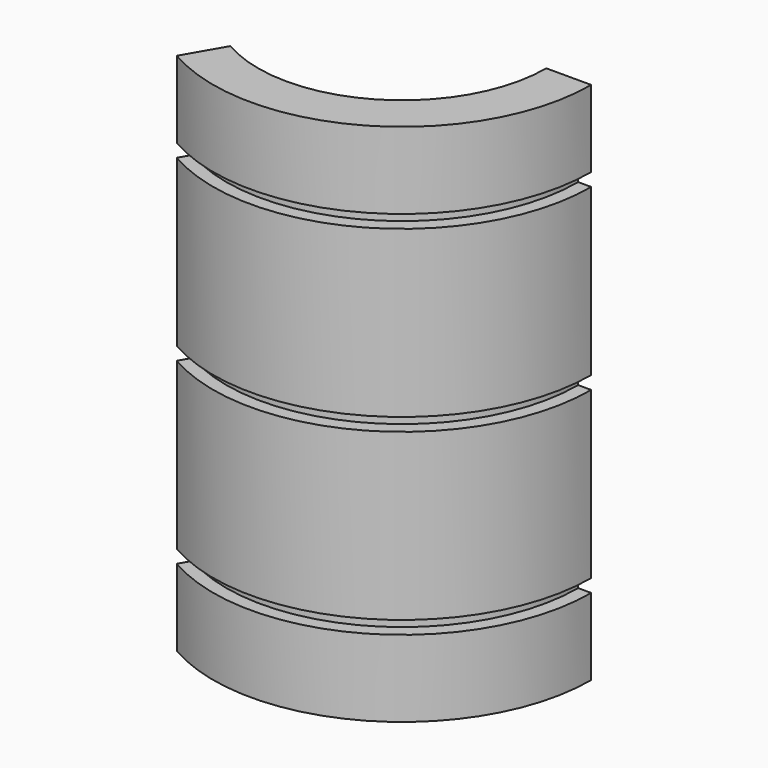
from build123d import *

# Parameters (mm, degrees)
F1_ANGLE = 120


with BuildPart() as f1:
    # F0 (on Front) → F1 (revolve)
    with BuildSketch(Plane.XZ):
        Polygon((38.5, 70), (38.5, 0), (38.5, -70), (50.5, -70), (50.5, -49.5), (47, -49.5), (47, -46), (50.5, -46), (50.5, -1.75), (47, -1.75), (47, 0), (47, 1.75), (50.5, 1.75), (50.5, 46), (47, 46), (47, 49.5), (50.5, 49.5), (50.5, 70), align=None)
    revolve(axis=Axis((0, 0, -1.828774), (0, 0, -1)), revolution_arc=F1_ANGLE)


solid = f1.part
